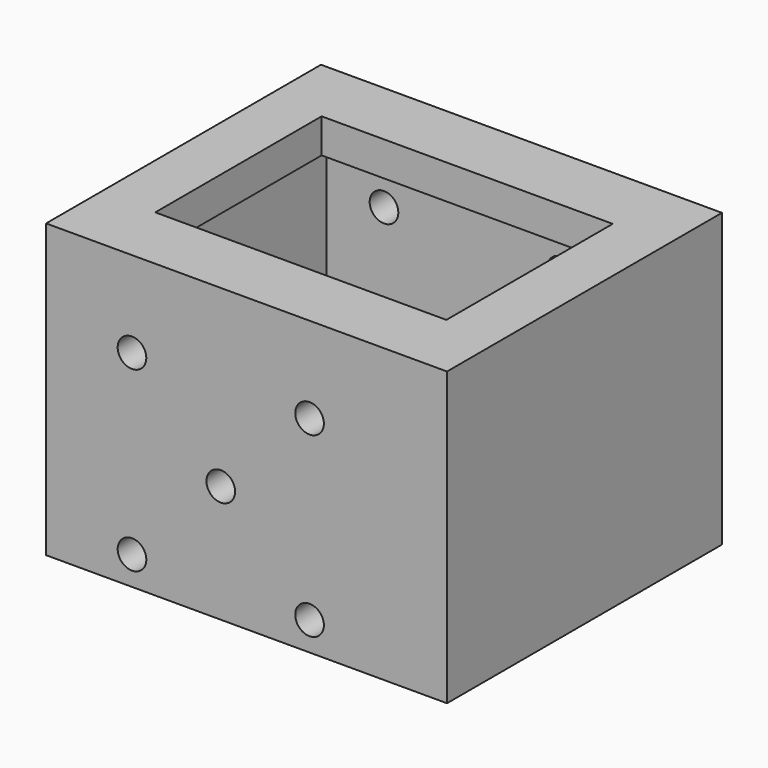
from build123d import *

# Parameters (mm, degrees)
F0_W     = 70
F0_H     = 60
F0_W_2   = 50.823688
F0_H_2   = 36.305584
F1_DEPTH = 6
F2_W     = 70
F2_H     = 60
F2_W_2   = 60
F2_H_2   = 50
F3_DEPTH = 45
F5_D     = 5


with BuildPart() as f1:
    # F0 (on Top) → F1 (new body)
    with BuildSketch(Plane.XY):
        Rectangle(F0_W, F0_H)
        Rectangle(F0_W_2, F0_H_2, mode=Mode.SUBTRACT)
    extrude(amount=F1_DEPTH)

    # F2 (on face) → F3 (join)
    with BuildSketch(Plane(origin=(0, 0, 0), x_dir=(1, 0, 0), z_dir=(0, 0, -1))):
        Rectangle(F2_W, F2_H)
        Rectangle(F2_W_2, F2_H_2, mode=Mode.SUBTRACT)
    extrude(amount=F3_DEPTH)

    # F5 (through all)
    with Locations(Plane(origin=(0, 30, 0), x_dir=(-1, 0, 0), z_dir=(0, 1, 0))):
        with Locations((20, -40), (-11, -40), (4.5, -24.5), (20, -9), (-11, -9)):
            Hole(F5_D / 2)


solid = f1.part
